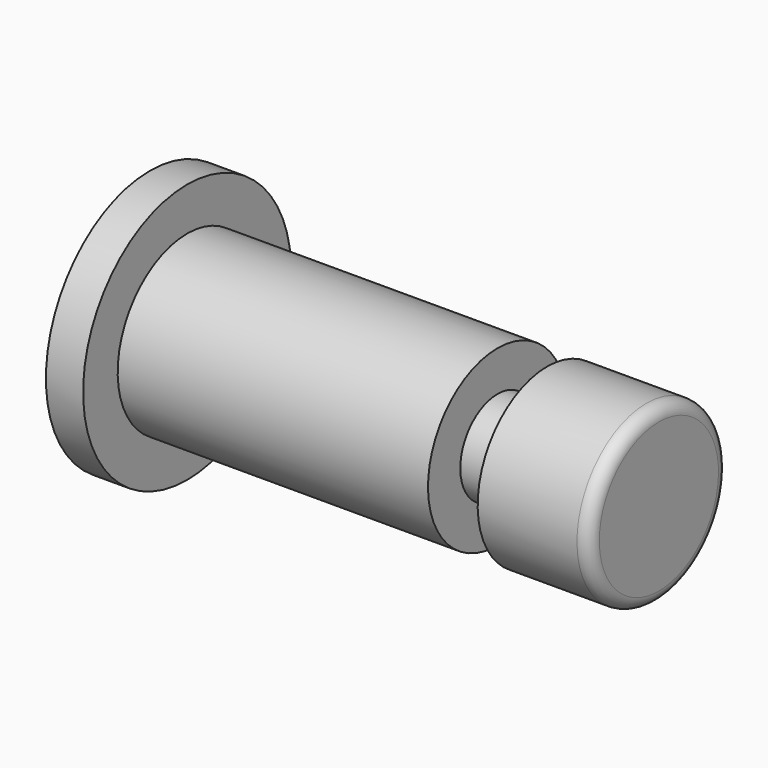
from build123d import *

# Parameters (mm, degrees)
F2_R = 1


with BuildPart() as f1:
    # F0 (on Front) → F1 (revolve)
    with BuildSketch(Plane.XZ):
        Polygon((0, 7), (0, 0), (43, 0), (43, 7), (34, 7), (34, 3.75), (30, 3.75), (30, 7), (5, 7), (5, 10.478261), (2, 10.478261), (2, 7), align=None)
    revolve(axis=Axis((21.5, 0, 0), (1, 0, 0)))

    # F2
    f2_edges = [f1.edges().sort_by_distance(p)[0] for p in [
        (43, 0, -7),
    ]]
    fillet(f2_edges, radius=F2_R)


solid = f1.part
